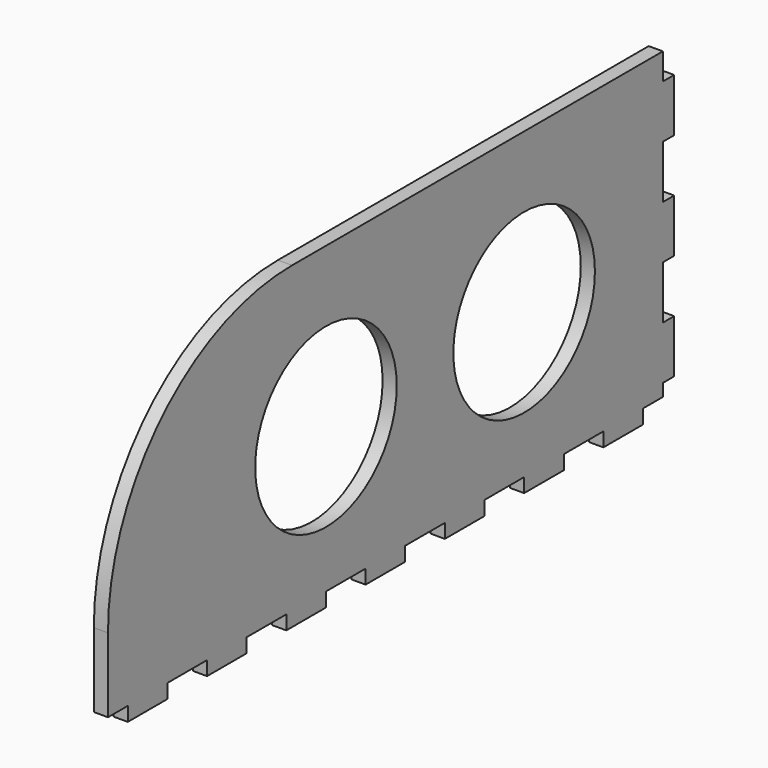
from build123d import *

# Parameters (mm, degrees)
SKETCH071_W     = 200
SKETCH071_H     = 90
PAD035_DEPTH    = 4
SKETCH070_R     = 25
SKETCH070_W     = 7
SKETCH070_H     = 4
SKETCH070_W_2   = 14
SKETCH070_W_3   = 4
SKETCH070_H_2   = 15
SKETCH070_H_3   = 7.5
POCKET031_DEPTH = 4
FILLET002_R     = 65


with BuildPart() as part:
    # Sketch071 → Pad035 (new body)
    with BuildSketch(Plane.YZ):
        Rectangle(SKETCH071_W, SKETCH071_H)
    extrude(amount=PAD035_DEPTH)

    # Sketch070 (on Face6 of Pad035) → Pocket031 (cut)
    with BuildSketch(Plane.YZ.offset(4)):
        with Locations((-23, 0)):
            Circle(SKETCH070_R)
        with Locations((47, 0)):
            Circle(SKETCH070_R)
        with Locations((-96.5, -43)):
            Rectangle(SKETCH070_W, SKETCH070_H)
        with Locations((-72, -43)):
            Rectangle(SKETCH070_W_2, SKETCH070_H)
        with Locations((-44, -43)):
            Rectangle(SKETCH070_W_2, SKETCH070_H)
        with Locations((-16, -43)):
            Rectangle(SKETCH070_W_2, SKETCH070_H)
        with Locations((12, -43)):
            Rectangle(SKETCH070_W_2, SKETCH070_H)
        with Locations((40, -43)):
            Rectangle(SKETCH070_W_2, SKETCH070_H)
        with Locations((68, -43)):
            Rectangle(SKETCH070_W_2, SKETCH070_H)
        with Locations((98, -15)):
            Rectangle(SKETCH070_W_3, SKETCH070_H_2)
        with Locations((98, 15)):
            Rectangle(SKETCH070_W_3, SKETCH070_H_2)
        with Locations((98, 41.25)):
            Rectangle(SKETCH070_W_3, SKETCH070_H_3)
        Polygon((89, -45), (89, -41), (96, -41), (96, -37.5), (100, -37.5), (100, -45), align=None)
    extrude(amount=-POCKET031_DEPTH, mode=Mode.SUBTRACT)

    # Fillet002
    fillet002_edges = [part.edges().sort_by_distance(p)[0] for p in [
        (2, -100, 45),
    ]]
    fillet(fillet002_edges, radius=FILLET002_R)


with BuildPart() as part_1:
    # Body035 placement: moved
    add(part.part.moved(Location((-331, -402, 0))))


solid = part_1.part
